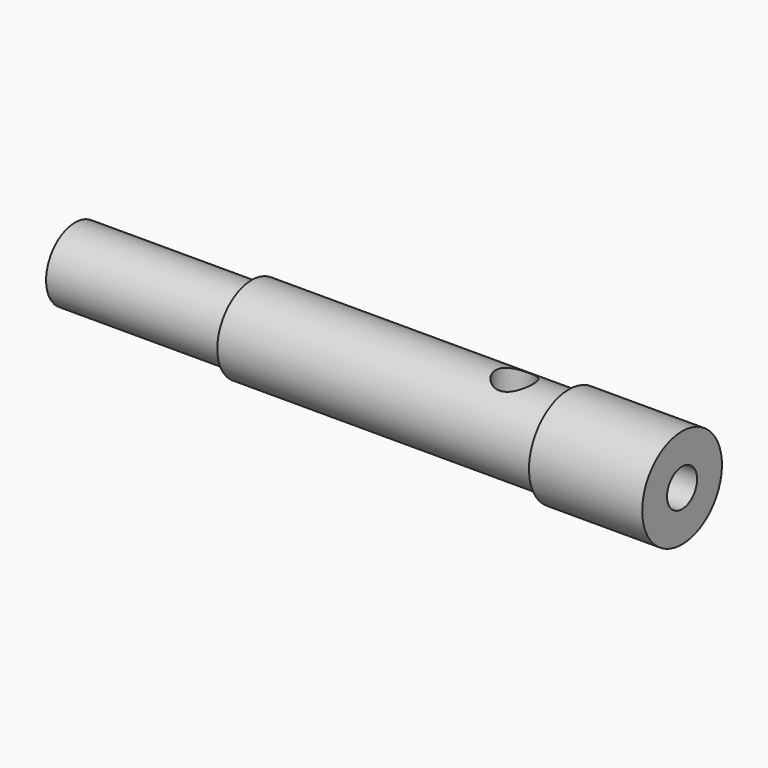
from build123d import *

# Parameters (mm, degrees)
F0_W          = 12
F0_H          = 9.5
F0_W_2        = 39
F0_H_2        = 8
F3_DEPTH      = 11.001
F3_DEPTH_BACK = 11.001
F4_R          = 4.15
F5_DEPTH      = 44


with BuildPart() as f1:
    # F0 (on Front) → F1 (revolve)
    with BuildSketch(Plane.XZ):
        Polygon((-25, 0), (0, 0), (0, 11), (-25, 11), (-25, 9.5), align=None)
        with Locations((-31, 4.75)):
            Rectangle(F0_W, F0_H)
        Polygon((-95, 0), (-37, 0), (-37, 9.5), (-95, 9.5), (-95, 8), align=None)
        with Locations((-114.5, 4)):
            Rectangle(F0_W_2, F0_H_2)
    revolve(axis=Axis((-12.5, 0, 0), (-1, 0, 0)))

    # F2 (on Top) → F3 (cut, two sides)
    with BuildSketch(Plane.XY) as f3_sk:
        with BuildLine():
            Line((-41.15, 0), (-37, 0))
            Line((-37, 0), (-32.85, 0))
            ThreePointArc((-32.85, 0), (-37, 4.15), (-41.15, 0))
        make_face()
        with BuildLine():
            Line((-32.85, 0), (-37, 0))
            Line((-37, 0), (-41.15, 0))
            ThreePointArc((-41.15, 0), (-37, -4.15), (-32.85, 0))
        make_face()
    extrude(amount=F3_DEPTH, mode=Mode.SUBTRACT)
    extrude(f3_sk.sketch, amount=-F3_DEPTH_BACK, mode=Mode.SUBTRACT)

    # F4 (on Right) → F5 (cut)
    with BuildSketch(Plane.YZ):
        Circle(F4_R)
    extrude(amount=-F5_DEPTH, mode=Mode.SUBTRACT)


solid = f1.part
